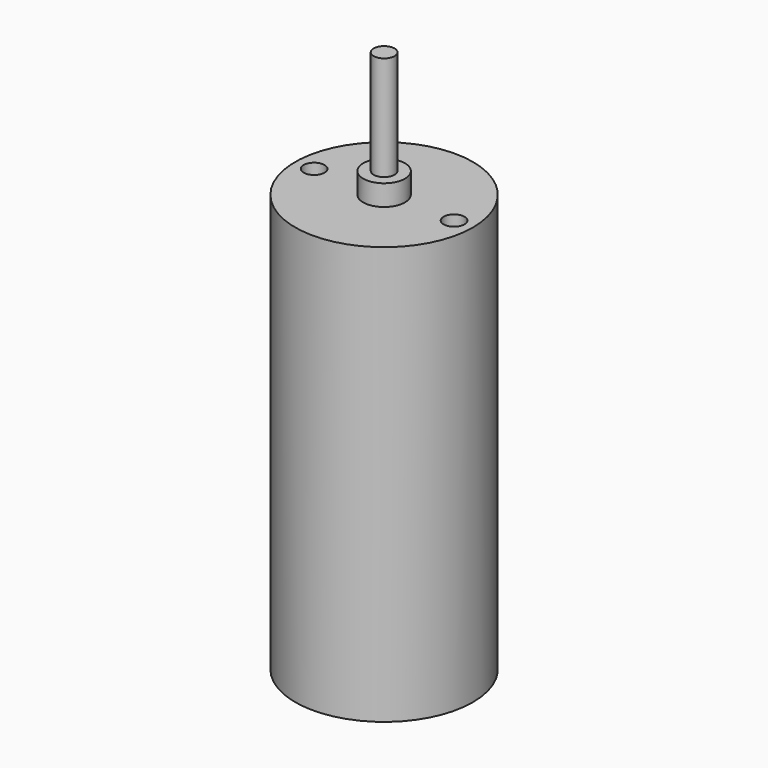
from build123d import *

# Parameters (mm, degrees)
F0_W     = 0.5
F0_H     = 5
F2_R     = 0.5
F3_DEPTH = 1


with BuildPart() as f1:
    # F0 (on Front) → F1 (revolve)
    with BuildSketch(Plane.XZ):
        Polygon((0.607774, 12.396288), (-0.392226, 12.396288), (-0.392226, -7.603712), (3.857774, -7.603712), (3.857774, 12.396288), align=None)
        Polygon((-0.392226, 13.396288), (-0.392226, 12.396288), (0.607774, 12.396288), (0.607774, 13.396288), (0.107774, 13.396288), align=None)
        with Locations((-0.142226, 15.896288)):
            Rectangle(F0_W, F0_H)
    revolve(axis=Axis((-0.392226, 0, 11.189216), (0, 0, 1)))

    # F2 (on face) → F3 (cut)
    with BuildSketch(Plane.XY.offset(12.396288)):
        with BuildLine():
            ThreePointArc((-3.241049, 0), (-3.741049, 0.5), (-4.241049, 0))
            Line((-4.241049, 0), (-3.241049, 0))
        make_face()
        with BuildLine():
            Line((-3.241049, 0), (-4.241049, 0))
            ThreePointArc((-4.241049, 0), (-3.741049, -0.5), (-3.241049, 0))
        make_face()
        with Locations((2.956598, 0)):
            Circle(F2_R)
    extrude(amount=-F3_DEPTH, mode=Mode.SUBTRACT)


solid = f1.part
